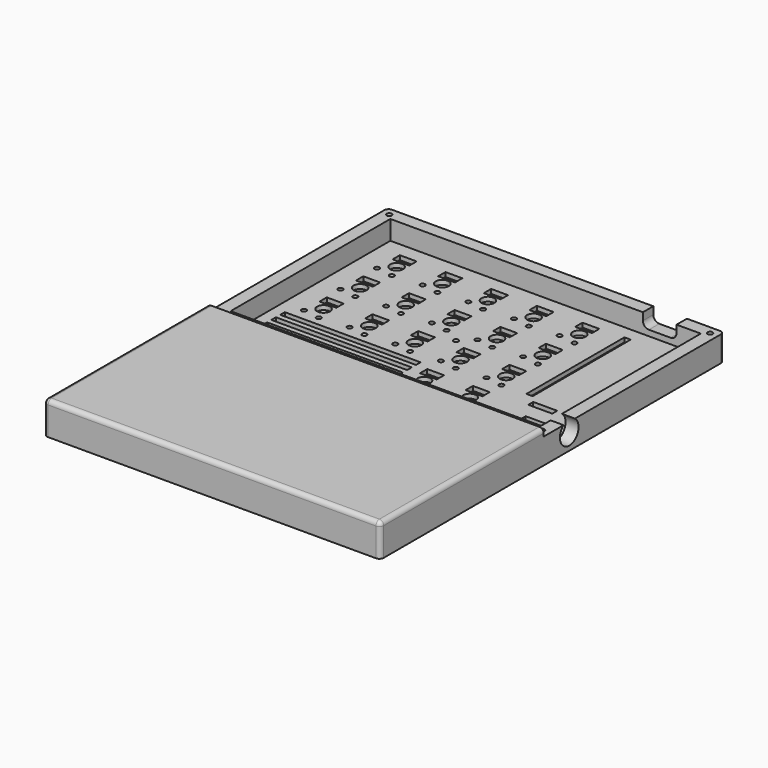
from build123d import *

# Parameters (mm, degrees)
PAD_DEPTH       = 13.6
SKETCH001_W     = 129.2
SKETCH001_H     = 83.1
POCKET_DEPTH    = 11
SKETCH006_R     = 1.05
POCKET002_DEPTH = 13.601
SKETCH007_W     = 140
SKETCH007_H     = 93.9
POCKET003_DEPTH = 3
POCKET005_DEPTH = 1.6
SKETCH013_R     = 1
SKETCH013_R_2   = 2.7
SKETCH013_W     = 7
SKETCH013_H     = 3.8
POCKET008_DEPTH = 1.8
SKETCH014_W     = 2.6
SKETCH014_H     = 51
SKETCH014_W_2   = 10
SKETCH014_H_2   = 2.6
POCKET009_DEPTH = 1.8
SKETCH015_W     = 56.5
SKETCH015_H     = 2.4
SKETCH015_W_2   = 22.5
POCKET010_DEPTH = 1.8
SKETCH016_W     = 15
SKETCH016_H     = 10
POCKET011_DEPTH = 1.8
SKETCH017_R     = 4.85
POCKET012_DEPTH = 5.4
FILLET002_R     = 1.8
POCKET014_DEPTH = 10


with BuildPart() as part:
    # Sketch (on XY_Plane077 of Origin154) → Pad (new body)
    with BuildSketch(Plane.XY):
        Polygon((70, -46.95), (70, 46.95), (-70, 46.95), (-70, -46.95), (-70, -131.95), (70, -131.95), align=None)
    extrude(amount=PAD_DEPTH)

    # Sketch001 (on Face4 of Pad) → Pocket (cut)
    with BuildSketch(Plane.XY.offset(13.6)):
        Rectangle(SKETCH001_W, SKETCH001_H)
    extrude(amount=-POCKET_DEPTH, mode=Mode.SUBTRACT)

    # Sketch006 (on Face5 of Pocket) → Pocket002 (cut, through all)
    with BuildSketch(Plane.XY.offset(13.6)):
        with Locations((66.75, 43.7)):
            Circle(SKETCH006_R)
        with Locations((66.75, -43.7)):
            Circle(SKETCH006_R)
        with Locations((-66.75, -43.7)):
            Circle(SKETCH006_R)
        with Locations((-66.75, 43.7)):
            Circle(SKETCH006_R)
        with Locations((-4.05, 0)):
            Circle(SKETCH006_R)
    extrude(amount=-POCKET002_DEPTH, mode=Mode.SUBTRACT)

    # Sketch007 (on Face4 of Pad) → Pocket003 (cut)
    with BuildSketch(Plane.XY.offset(13.6)):
        Rectangle(SKETCH007_W, SKETCH007_H)
    extrude(amount=-POCKET003_DEPTH, mode=Mode.SUBTRACT)

    # Sketch010 (on Face2 of Pocket003) → Pocket005 (cut)
    with BuildSketch(Plane(origin=(0, 0, 0), x_dir=(1, 0, 0), z_dir=(0, 0, -1))):
        Polygon((64.75, -43.7), (65.75, -45.432051), (67.75, -45.432051), (68.75, -43.7), (67.75, -41.967949), (65.75, -41.967949), align=None)
        Polygon((-64.75, -43.7), (-65.75, -45.432051), (-67.75, -45.432051), (-68.75, -43.7), (-67.75, -41.967949), (-65.75, -41.967949), align=None)
        Polygon((64.75, 43.7), (65.75, 45.432051), (67.75, 45.432051), (68.75, 43.7), (67.75, 41.967949), (65.75, 41.967949), align=None)
        Polygon((-64.75, 43.7), (-65.75, 45.432051), (-67.75, 45.432051), (-68.75, 43.7), (-67.75, 41.967949), (-65.75, 41.967949), align=None)
        Polygon((-2.05, 0), (-3.05, 1.732051), (-5.05, 1.732051), (-6.05, 0), (-5.05, -1.732051), (-3.05, -1.732051), align=None)
    extrude(amount=-POCKET005_DEPTH, mode=Mode.SUBTRACT)

    # Sketch013 (on Face52 of Pocket005) → Pocket008 (cut)
    with BuildSketch(Plane.XY.offset(2.6)):
        with Locations((8.05, 3.75)):
            Circle(SKETCH013_R)
        with Locations((1.05, 4.8)):
            Circle(SKETCH013_R)
        with Locations((5.45, 9.5)):
            Circle(SKETCH013_R_2)
        with Locations((8.05, 22.75)):
            Circle(SKETCH013_R)
        with Locations((1.05, 23.8)):
            Circle(SKETCH013_R)
        with Locations((5.45, 28.5)):
            Circle(SKETCH013_R_2)
        with Locations((-29.95, 3.75)):
            Circle(SKETCH013_R)
        with Locations((-36.95, 4.8)):
            Circle(SKETCH013_R)
        with Locations((-32.55, 9.5)):
            Circle(SKETCH013_R_2)
        with Locations((-29.95, 22.75)):
            Circle(SKETCH013_R)
        with Locations((-36.95, 23.8)):
            Circle(SKETCH013_R)
        with Locations((-32.55, 28.5)):
            Circle(SKETCH013_R_2)
        with Locations((-48.95, 22.75)):
            Circle(SKETCH013_R)
        with Locations((-55.95, 23.8)):
            Circle(SKETCH013_R)
        with Locations((-51.55, 28.5)):
            Circle(SKETCH013_R_2)
        with Locations((-48.95, 3.75)):
            Circle(SKETCH013_R)
        with Locations((-55.95, 4.8)):
            Circle(SKETCH013_R)
        with Locations((-51.55, 9.5)):
            Circle(SKETCH013_R_2)
        with Locations((-10.95, 22.75)):
            Circle(SKETCH013_R)
        with Locations((-17.95, 23.8)):
            Circle(SKETCH013_R)
        with Locations((-13.55, 28.5)):
            Circle(SKETCH013_R_2)
        with Locations((27.05, 3.75)):
            Circle(SKETCH013_R)
        with Locations((20.05, 4.8)):
            Circle(SKETCH013_R)
        with Locations((24.45, 9.5)):
            Circle(SKETCH013_R_2)
        with Locations((27.05, 22.75)):
            Circle(SKETCH013_R)
        with Locations((20.05, 23.8)):
            Circle(SKETCH013_R)
        with Locations((24.45, 28.5)):
            Circle(SKETCH013_R_2)
        with Locations((-48.95, -15.25)):
            Circle(SKETCH013_R)
        with Locations((-55.95, -14.2)):
            Circle(SKETCH013_R)
        with Locations((-51.55, -9.5)):
            Circle(SKETCH013_R_2)
        with Locations((-29.95, -15.25)):
            Circle(SKETCH013_R)
        with Locations((-36.95, -14.2)):
            Circle(SKETCH013_R)
        with Locations((-32.55, -9.5)):
            Circle(SKETCH013_R_2)
        with Locations((-10.95, -15.25)):
            Circle(SKETCH013_R)
        with Locations((-17.95, -14.2)):
            Circle(SKETCH013_R)
        with Locations((-13.55, -9.5)):
            Circle(SKETCH013_R_2)
        with Locations((8.05, -15.25)):
            Circle(SKETCH013_R)
        with Locations((1.05, -14.2)):
            Circle(SKETCH013_R)
        with Locations((5.45, -9.5)):
            Circle(SKETCH013_R_2)
        with Locations((27.05, -15.25)):
            Circle(SKETCH013_R)
        with Locations((20.05, -14.2)):
            Circle(SKETCH013_R)
        with Locations((24.45, -9.5)):
            Circle(SKETCH013_R_2)
        with Locations((8.05, -34.25)):
            Circle(SKETCH013_R)
        with Locations((1.05, -33.2)):
            Circle(SKETCH013_R)
        with Locations((5.45, -28.5)):
            Circle(SKETCH013_R_2)
        with Locations((27.05, -34.25)):
            Circle(SKETCH013_R)
        with Locations((20.05, -33.2)):
            Circle(SKETCH013_R)
        with Locations((24.45, -28.5)):
            Circle(SKETCH013_R_2)
        with Locations((-10.95, 3.75)):
            Circle(SKETCH013_R)
        with Locations((-17.95, 4.8)):
            Circle(SKETCH013_R)
        with Locations((-13.55, 9.5)):
            Circle(SKETCH013_R_2)
        with Locations((4.65, 14.65)):
            Rectangle(SKETCH013_W, SKETCH013_H)
        with Locations((4.65, 33.65)):
            Rectangle(SKETCH013_W, SKETCH013_H)
        with Locations((-33.35, 14.65)):
            Rectangle(SKETCH013_W, SKETCH013_H)
        with Locations((-33.35, 33.65)):
            Rectangle(SKETCH013_W, SKETCH013_H)
        with Locations((-52.35, 33.65)):
            Rectangle(SKETCH013_W, SKETCH013_H)
        with Locations((-52.35, 14.65)):
            Rectangle(SKETCH013_W, SKETCH013_H)
        with Locations((-14.35, 33.65)):
            Rectangle(SKETCH013_W, SKETCH013_H)
        with Locations((23.65, 14.65)):
            Rectangle(SKETCH013_W, SKETCH013_H)
        with Locations((23.65, 33.65)):
            Rectangle(SKETCH013_W, SKETCH013_H)
        with Locations((-52.35, -4.35)):
            Rectangle(SKETCH013_W, SKETCH013_H)
        with Locations((-33.35, -4.35)):
            Rectangle(SKETCH013_W, SKETCH013_H)
        with Locations((-14.35, -4.35)):
            Rectangle(SKETCH013_W, SKETCH013_H)
        with Locations((4.65, -4.35)):
            Rectangle(SKETCH013_W, SKETCH013_H)
        with Locations((23.65, -4.35)):
            Rectangle(SKETCH013_W, SKETCH013_H)
        with Locations((4.65, -23.35)):
            Rectangle(SKETCH013_W, SKETCH013_H)
        with Locations((23.65, -23.35)):
            Rectangle(SKETCH013_W, SKETCH013_H)
        with Locations((-14.35, 14.65)):
            Rectangle(SKETCH013_W, SKETCH013_H)
    extrude(amount=-POCKET008_DEPTH, mode=Mode.SUBTRACT)

    # Sketch014 (on Face52 of Pocket008) → Pocket009 (cut)
    with BuildSketch(Plane.XY.offset(2.6)):
        with Locations((38.55, 10.5)):
            Rectangle(SKETCH014_W, SKETCH014_H)
        with Locations((56.4, 10.5)):
            Rectangle(SKETCH014_W, SKETCH014_H)
        with Locations((47.5, -19.3)):
            Rectangle(SKETCH014_W_2, SKETCH014_H_2)
    extrude(amount=-POCKET009_DEPTH, mode=Mode.SUBTRACT)

    # Sketch015 (on Face52 of Pocket009) → Pocket010 (cut)
    with BuildSketch(Plane.XY.offset(2.6)):
        with Locations((-31.75, -24.9)):
            Rectangle(SKETCH015_W, SKETCH015_H)
        with Locations((-31.75, -29.5)):
            Rectangle(SKETCH015_W, SKETCH015_H)
        with Locations((-14.75, -34.1)):
            Rectangle(SKETCH015_W_2, SKETCH015_H)
        with Locations((-31.75, -20.3)):
            Rectangle(SKETCH015_W, SKETCH015_H)
    extrude(amount=-POCKET010_DEPTH, mode=Mode.SUBTRACT)

    # Sketch016 (on Face52 of Pocket010) → Pocket011 (cut)
    with BuildSketch(Plane.XY.offset(2.6)):
        with Locations((54.375, -32.375)):
            Rectangle(SKETCH016_W, SKETCH016_H)
    extrude(amount=-POCKET011_DEPTH, mode=Mode.SUBTRACT)

    # Sketch017 (on Face5 of Pocket011) → Pocket012 (cut)
    with BuildSketch(Plane.YZ.offset(70)):
        with Locations((-33.65, 6.75)):
            Circle(SKETCH017_R)
    extrude(amount=-POCKET012_DEPTH, mode=Mode.SUBTRACT)

    # Fillet002
    fillet002_edges = [part.edges().sort_by_distance(p)[0] for p in [
        (-70, -89.45, 13.6),
        (0, -131.95, 13.6),
        (-70, -131.95, 6.8),
        (-70, 46.95, 5.3),
        (70, 46.95, 5.3),
        (70, -89.45, 13.6),
        (70, -131.95, 6.8),
    ]]
    fillet(fillet002_edges, radius=FILLET002_R)

    # Sketch020 (on Face1 of Fillet002) → Pocket014 (cut)
    with BuildSketch(Plane(origin=(0, 46.95, 0), x_dir=(-1, 0, 0), z_dir=(0, 1, 0))):
        with BuildLine():
            Line((-40.5, 7.5), (-40.5, 10.5))
            ThreePointArc((-40.5, 10.5), (-41.232233, 12.267767), (-43, 13))
            Line((-43, 13), (-52, 13))
            ThreePointArc((-52, 13), (-53.767767, 12.267767), (-54.5, 10.5))
            Line((-54.5, 10.5), (-54.5, 7.5))
            ThreePointArc((-54.5, 7.5), (-53.767767, 5.732233), (-52, 5))
            Line((-52, 5), (-43, 5))
            ThreePointArc((-43, 5), (-41.232233, 5.732233), (-40.5, 7.5))
        make_face()
    extrude(amount=-POCKET014_DEPTH, mode=Mode.SUBTRACT)


with BuildPart() as part_1:
    # Body placement: moved
    add(part.part.moved(Location((0, 0, -0.1))))


solid = part_1.part
